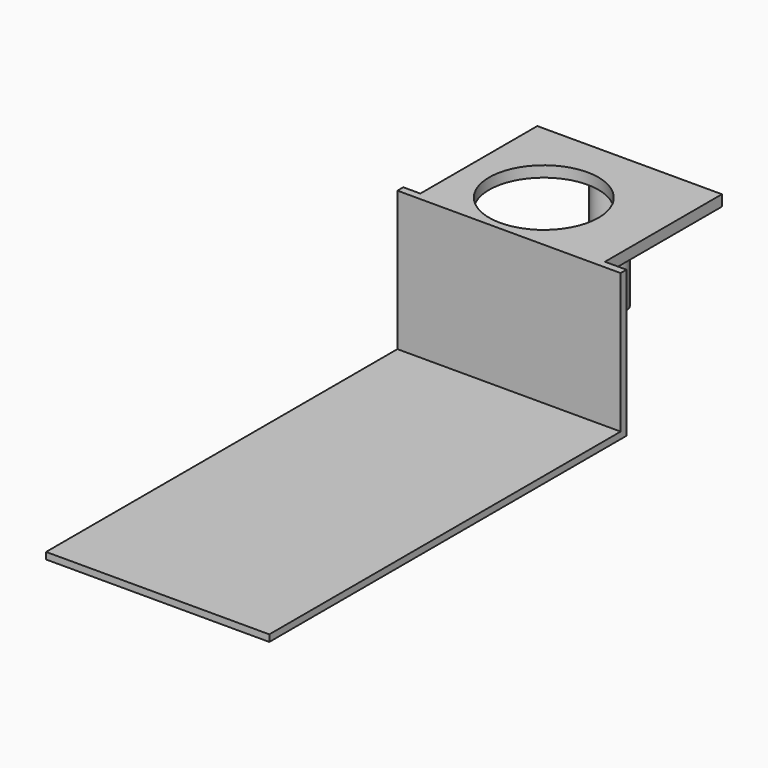
from build123d import *

# Parameters (mm, degrees)
F0_W     = 50.8
F0_H     = 1.668666
F0_H_2   = 99.931334
F1_DEPTH = 1.524
F2_DEPTH = 33.274
F3_W     = 42.008801
F3_H     = 2.4892
F4_DEPTH = 33.274
F5_R     = 12.446
F6_DEPTH = 25.4
F7_R     = 3.656717
F8_DEPTH = 25.4


with BuildPart() as f1:
    # F0 (on Top) → F1 (new body)
    with BuildSketch(Plane.XY):
        with Locations((-13.704186, 132.995608)):
            Rectangle(F0_W, F0_H)
        with Locations((-13.704186, 82.195608)):
            Rectangle(F0_W, F0_H_2)
    extrude(amount=F1_DEPTH)

    # F0 (on Top) → F2 (join)
    with BuildSketch(Plane.XY):
        with Locations((-13.704186, 132.995608)):
            Rectangle(F0_W, F0_H)
    extrude(amount=F2_DEPTH)

    # F3 (on face) → F4 (join)
    with BuildSketch(Plane(origin=(0, 133.829941, 0), x_dir=(-1, 0, 0), z_dir=(0, 1, 0))):
        with Locations((14.214616, 32.0294)):
            Rectangle(F3_W, F3_H)
    extrude(amount=F4_DEPTH)

    # F5 (on face) → F6 (cut)
    with BuildSketch(Plane.XY.offset(33.274)):
        with Locations((-17.118977, 146.331966)):
            Circle(F5_R)
    extrude(amount=-F6_DEPTH, mode=Mode.SUBTRACT)

    # F7 (on face) → F8 (join)
    with BuildSketch(Plane(origin=(0, 0, 30.7848), x_dir=(1, 0, 0), z_dir=(0, 0, -1))):
        with Locations((-15.556242, -163.017869)):
            Circle(F7_R)
    extrude(amount=F8_DEPTH)


solid = f1.part
